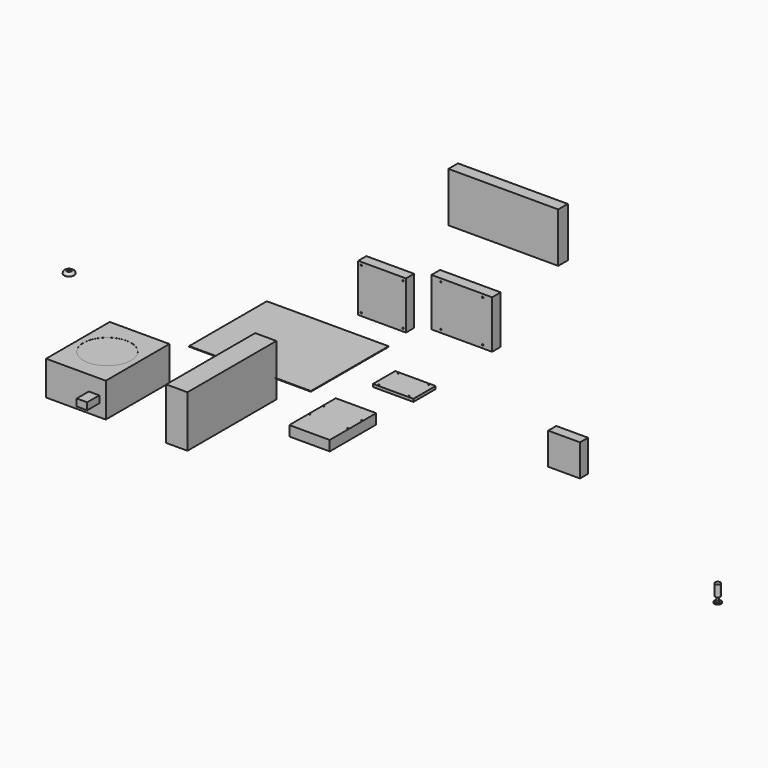
from build123d import *

# Parameters (mm, degrees)
F0_W      = 306
F0_H      = 244
F1_DEPTH  = 1.6
F2_W      = 279.4
F2_H      = 129.54
F3_DEPTH  = 53.34
F4_W      = 150
F4_H      = 200
F5_DEPTH  = 86
F6_W      = 120
F6_H      = 120
F6_R      = 1.75
F7_DEPTH  = 25.4
F8_W      = 80
F8_H      = 80
F9_DEPTH  = 25.4
F10_W     = 152.4
F10_H     = 120.65
F10_R     = 1.75
F11_DEPTH = 27
F12_W     = 101.6
F12_H     = 146.05
F13_DEPTH = 25.4
F14_W     = 101.6
F14_H     = 69.85
F15_DEPTH = 6.985
F16_R     = 1.7526
F17_DEPTH = 6.35
F18_R     = 60
F19_DEPTH = 0.254
F20_W     = 25.4
F20_H     = 19.05
F21_DEPTH = 0.254
F22_R     = 8.334375
F23_DEPTH = 2.06375
F24_R     = 3.96875
F25_DEPTH = 3.175
F25_TAPER = 20
F26_R     = 2.69875
F27_DEPTH = 38.1
F28_R     = 1.5875
F29_DEPTH = 460.6137378464
F30_R     = 12.7
F31_DEPTH = 6.35
F32_R     = 4.7625
F33_DEPTH = 3.175
F34_R     = 5.08
F35_W     = 26.2241661549
F35_H     = 17.7685059607
F36_DEPTH = 38.1
F37_W     = 276
F37_H     = 125
F38_DEPTH = 30
F39_R     = 6.35
F39_R_2   = 2.69875
F40_DEPTH = 28.575


with BuildPart() as f1:
    # F0 (on Top) → F1 (new body)
    with BuildSketch(Plane.XY):
        with Locations((-10.1058064699, 250.2224655151)):
            Rectangle(F0_W, F0_H)
    extrude(amount=F1_DEPTH)


with BuildPart() as f3:
    # F2 (on Right) → F3 (new body)
    with BuildSketch(Plane.YZ):
        with Locations((-8.0091123909, 17.1324525767)):
            Rectangle(F2_W, F2_H)
    extrude(amount=F3_DEPTH)


with BuildPart() as f5:
    # F4 (on Top) → F5 (new body)
    with BuildSketch(Plane.XY):
        with Locations((-172.6151257753, -115.727353482)):
            Rectangle(F4_W, F4_H)
    extrude(amount=F5_DEPTH)

    # F16 (on face) → F17 (cut)
    with BuildSketch(Plane(origin=(0, -15.727353482, 0), x_dir=(-1, 0, 0), z_dir=(0, 1, 0))):
        with Locations((103.6151257753, 80)):
            Circle(F16_R)
        with Locations((103.6151257753, 16)):
            Circle(F16_R)
        with Locations((217.6151257753, 6)):
            Circle(F16_R)
        with Locations((241.6151257753, 80)):
            Circle(F16_R)
    extrude(amount=-F17_DEPTH, mode=Mode.SUBTRACT)

    # F18 (on face) → F19 (cut)
    with BuildSketch(Plane.XY.offset(86)):
        with Locations((-172.6151257753, -117.327353482)):
            Circle(F18_R)
    extrude(amount=-F19_DEPTH, mode=Mode.SUBTRACT)

    # F20 (on face) → F21 (join)
    with BuildSketch(Plane(origin=(0, -15.727353482, 0), x_dir=(-1, 0, 0), z_dir=(0, 1, 0))):
        with Locations((223.1201295137, 30.5113465279)):
            Rectangle(F20_W, F20_H)
        with Locations((223.1201295137, 55.9113465279)):
            Rectangle(F20_W, F20_H)
    extrude(amount=F21_DEPTH)

    # F35 (on face) → F36 (join)
    with BuildSketch(Plane.XZ.offset(215.727353482)):
        with Locations((-127.0080953836, 39.5191926509)):
            Rectangle(F35_W, F35_H)
    extrude(amount=F36_DEPTH)


with BuildPart() as f7:
    # F6 (on Front) → F7 (new body)
    with BuildSketch(Plane.XZ):
        with Locations((444.7244083881, 370.9248328209)):
            Rectangle(F6_W, F6_H)
        with Locations((392.2244083881, 318.4248328209)):
            Circle(F6_R, mode=Mode.SUBTRACT)
        with Locations((497.2244083881, 318.4248328209)):
            Circle(F6_R, mode=Mode.SUBTRACT)
        with Locations((392.2244083881, 423.4248328209)):
            Circle(F6_R, mode=Mode.SUBTRACT)
        with Locations((497.2244083881, 423.4248328209)):
            Circle(F6_R, mode=Mode.SUBTRACT)
    extrude(amount=F7_DEPTH)


with BuildPart() as f9:
    # F8 (on Front) → F9 (new body)
    with BuildSketch(Plane.XZ):
        with Locations((902.1816253662, 170.364036846)):
            Rectangle(F8_W, F8_H)
    extrude(amount=F9_DEPTH)


with BuildPart() as f11:
    # F10 (on Front) → F11 (new body)
    with BuildSketch(Plane.XZ):
        with Locations((646.3335609436, 400.2877378464)):
            Rectangle(F10_W, F10_H)
        with Locations((593.8335609436, 347.7877378464)):
            Circle(F10_R, mode=Mode.SUBTRACT)
        with Locations((698.8335609436, 347.7877378464)):
            Circle(F10_R, mode=Mode.SUBTRACT)
        with Locations((593.8335609436, 452.7877378464)):
            Circle(F10_R, mode=Mode.SUBTRACT)
        with Locations((698.8335609436, 452.7877378464)):
            Circle(F10_R, mode=Mode.SUBTRACT)
    extrude(amount=F11_DEPTH)


with BuildPart() as f13:
    # F12 (on Top) → F13 (new body)
    with BuildSketch(Plane.XY):
        with Locations((279.4711928766, 26.1241421103)):
            Rectangle(F12_W, F12_H)
    extrude(amount=F13_DEPTH)


with BuildPart() as f15:
    # F14 (on Top) → F15 (new body)
    with BuildSketch(Plane.XY):
        with Locations((276.3328612199, 254.8854114509)):
            Rectangle(F14_W, F14_H)
    extrude(amount=F15_DEPTH)


with BuildPart() as f23:
    # F22 (on Top) → F23 (new body)
    with BuildSketch(Plane.XY):
        with Locations((1326.5165090561, -73.2317119837)):
            Circle(F22_R)
    extrude(amount=F23_DEPTH)

    # F24 (on face) → F25 (join)
    with BuildSketch(Plane.XY.offset(2.06375)):
        with Locations((1326.5165090561, -73.2317119837)):
            Circle(F24_R)
    extrude(amount=F25_DEPTH, taper=F25_TAPER)

    # F26 (on face) → F27 (join)
    with BuildSketch(Plane.XY.offset(5.23875)):
        with Locations((1326.5165090561, -73.2317119837)):
            Circle(F26_R)
    extrude(amount=F27_DEPTH)

    # F39 (on face) → F40 (join)
    with BuildSketch(Plane.XY.offset(43.33875)):
        with Locations((1326.5165090561, -73.2317119837)):
            Circle(F39_R)
        with Locations((1326.5165090561, -73.2317119837)):
            Circle(F39_R_2, mode=Mode.SUBTRACT)
    extrude(amount=-F40_DEPTH)


with BuildPart() as f29_tool:
    # F28 (on face) → F29 (new body, through all)
    with BuildSketch(Plane(origin=(0, 0, 0), x_dir=(1, 0, 0), z_dir=(0, 0, -1))):
        with Locations((231.8511928766, -13.4191421103)):
            Circle(F28_R)
        with Locations((327.0911928766, -13.4191421103)):
            Circle(F28_R)
        with Locations((231.8511928766, -57.8691421103)):
            Circle(F28_R)
        with Locations((327.0911928766, -57.8691421103)):
            Circle(F28_R)
        with Locations((313.1328612199, -224.0364114509)):
            Circle(F28_R)
        with Locations((313.1328612199, -285.7464114509)):
            Circle(F28_R)
        with Locations((236.5328612199, -224.0364114509)):
            Circle(F28_R)
        with Locations((236.5328612199, -285.7464114509)):
            Circle(F28_R)
    extrude(amount=-F29_DEPTH)


with BuildPart() as f13_1:
    add(f13.part)

    # F29: cut by f29_tool
    add(f29_tool.part, mode=Mode.SUBTRACT)


with BuildPart() as f15_1:
    add(f15.part)

    # F29: cut by f29_tool
    add(f29_tool.part, mode=Mode.SUBTRACT)


with BuildPart() as f31:
    # F30 (on Top) → F31 (new body)
    with BuildSketch(Plane.XY):
        with Locations((-541.4056181908, 223.9672243595)):
            Circle(F30_R)
    extrude(amount=F31_DEPTH)

    # F32 (on face) → F33 (cut)
    with BuildSketch(Plane.XY.offset(6.35)):
        with Locations((-541.4056181908, 223.9672243595)):
            Circle(F32_R)
    extrude(amount=-F33_DEPTH, mode=Mode.SUBTRACT)

    # F34
    f34_edges = [f31.edges().sort_by_distance(p)[0] for p in [
        (-554.105618, 223.967224, 6.35),
    ]]
    fillet(f34_edges, radius=F34_R)


with BuildPart() as f38:
    # F37 (on Front) → F38 (new body)
    with BuildSketch(Plane.XZ):
        with Locations((753.0985176563, 648.6039801365)):
            Rectangle(F37_W, F37_H)
    extrude(amount=F38_DEPTH)


solid = Compound([f1.part, f3.part, f5.part, f7.part, f9.part, f11.part, f23.part, f13_1.part, f15_1.part, f31.part, f38.part])
